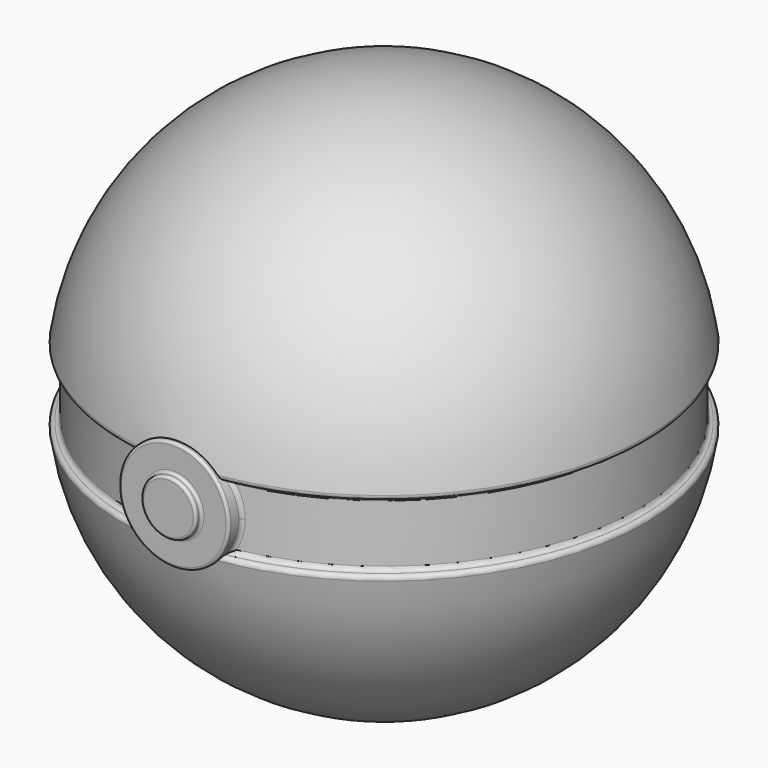
from build123d import *

# Parameters (mm, degrees)
F3_R          = 15.875
F4_DEPTH      = 1.5875
F4_DEPTH_BACK = 12.7
F5_R          = 15.875
F5_R_2        = 7.9375
F6_DEPTH      = 1.905
F7_R          = 1.1938
F8_R          = 0.762


with BuildPart() as f1:
    # F0 (on Front) → F1 (revolve)
    with BuildSketch(Plane.XZ):
        with BuildLine():
            Line((0, -76.2), (0, 76.2))
            ThreePointArc((0, 76.2), (-50.4015624758, 57.15), (-75.6023437137, 9.525))
            Line((-75.6023437137, 9.525), (-73.025, 9.525))
            Line((-73.025, 9.525), (-73.025, -9.525))
            Line((-73.025, -9.525), (-75.6023437137, -9.525))
            ThreePointArc((-75.6023437137, -9.525), (-50.4015624758, -57.15), (0, -76.2))
        make_face()
    revolve(axis=Axis((0, 0, 0), (0, 0, -1)))

    # F3 (on offset) → F4 (join, two sides)
    with BuildSketch(Plane.XZ.offset(76.2)) as f4_sk:
        Circle(F3_R)
    extrude(amount=F4_DEPTH)
    extrude(f4_sk.sketch, amount=-F4_DEPTH_BACK)

    # F5 (on face) → F6 (cut)
    with BuildSketch(Plane.XZ.offset(77.7875)):
        Circle(F5_R)
        Circle(F5_R_2, mode=Mode.SUBTRACT)
    extrude(amount=-F6_DEPTH, mode=Mode.SUBTRACT)

    # F7
    f7_edges = [f1.edges().sort_by_distance(p)[0] for p in [
        (0, 73.025, 9.525),
        (48.762509, 57.774839, 9.525),
        (0, 73.025, -9.525),
        (48.762509, 57.774839, -9.525),
        (15.057706, -71.455693, 5.028034),
        (15.057706, -71.455693, -5.028034),
        (-15.875, -71.278573, 0),
    ]]
    fillet(f7_edges, radius=F7_R)

    # F8
    f8_edges = [f1.edges().sort_by_distance(p)[0] for p in [
        (-15.875, -75.8825, 0),
        (-7.9375, -75.8825, 0),
        (-7.9375, -77.7875, 0),
    ]]
    fillet(f8_edges, radius=F8_R)


solid = f1.part
